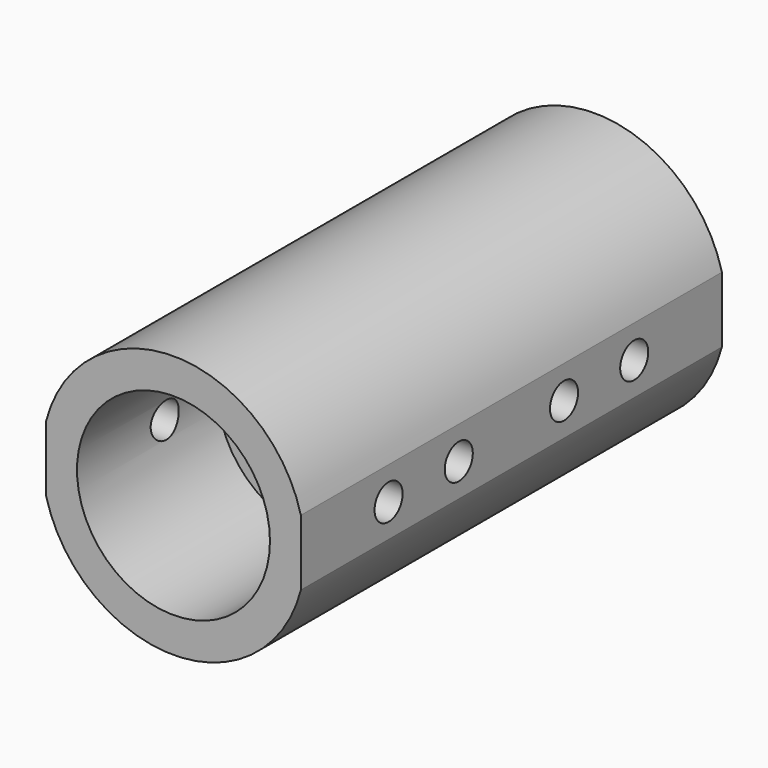
from build123d import *

# Parameters (mm, degrees)
F0_R      = 19.05
F1_DEPTH  = 76.2
F2_R      = 13.97
F3_DEPTH  = 25.4
F5_DEPTH  = 76.201
F6_R      = 2.54
F7_DEPTH  = 36.8911684564
F8_R      = 6.35
F9_DEPTH  = 7.9375
F10_R     = 1.5875
F11_DEPTH = 68.2635001


with BuildPart() as f1:
    # F0 (on Front) → F1 (new body)
    with BuildSketch(Plane.XZ):
        Circle(F0_R)
    extrude(amount=F1_DEPTH)

    # F2 (on face) → F3 (cut)
    with BuildSketch(Plane.XZ.offset(76.2)):
        Circle(F2_R)
    extrude(amount=-F3_DEPTH, mode=Mode.SUBTRACT)

    # F4 (on face) → F5 (cut, through all)
    with BuildSketch(Plane.XZ.offset(76.2)):
        with BuildLine():
            ThreePointArc((18.4450827696, -4.7625016141), (19.05, -1.667e-06), (18.4450836031, 4.7624983859))
            Line((18.4450836031, 4.7624983859), (18.4450827696, -4.7625016141))
        make_face()
        with BuildLine():
            Line((-18.4450836031, -4.7624983859), (-18.4450827696, 4.7625016141))
            ThreePointArc((-18.4450827696, 4.7625016141), (-19.05, 1.667e-06), (-18.4450836031, -4.7624983859))
        make_face()
    extrude(amount=-F5_DEPTH, mode=Mode.SUBTRACT)

    # F6 (on face) → F7 (cut, through all)
    with BuildSketch(Plane(origin=(18.4450831863, 0, -1.6141e-06), x_dir=(0, 1, 0), z_dir=(1, 0, -8.75e-08))):
        with Locations((-60.325, 0)):
            Circle(F6_R)
        with Locations((-47.625, 0)):
            Circle(F6_R)
        with Locations((-28.575, 0)):
            Circle(F6_R)
        with Locations((-15.875, 0)):
            Circle(F6_R)
    extrude(amount=-F7_DEPTH, mode=Mode.SUBTRACT)

    # F8 (on face) → F9 (cut)
    with BuildSketch(Plane(origin=(0, 0, 0), x_dir=(-1, 0, 0), z_dir=(0, 1, 0))):
        Circle(F8_R)
    extrude(amount=-F9_DEPTH, mode=Mode.SUBTRACT)

    # F10 (on face) → F11 (cut, through all)
    with BuildSketch(Plane(origin=(0, -7.9375, 0), x_dir=(-1, 0, 0), z_dir=(0, 1, 0))):
        Circle(F10_R)
    extrude(amount=-F11_DEPTH, mode=Mode.SUBTRACT)


solid = f1.part
